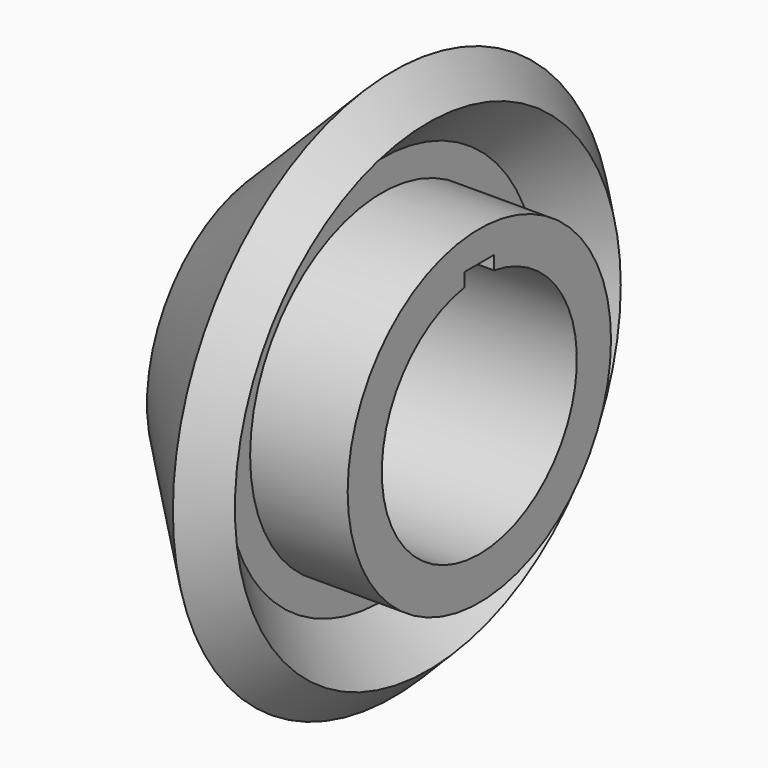
from build123d import *

# Parameters (mm, degrees)
F3_DEPTH = 75.32841


with BuildPart() as f1:
    # F0 (on Top) → F1 (revolve)
    with BuildSketch(Plane.XY):
        Polygon((75.32841, 25.4), (75.32841, 34.29), (55.00841, 34.29), (55.00841, 40.64), (64.604973, 50.236563), (57.420768, 57.420768), (30.48, 30.48), (30.48, 25.4), align=None)
    revolve(axis=Axis((1.895559, 0, 0), (1, 0, 0)))

    # F2 (on Right) → F3 (cut, through all)
    with BuildSketch(Plane.YZ):
        with BuildLine():
            ThreePointArc((-3.81, 25.112624), (0, 25.4), (3.81, 25.112624))
            Line((3.81, 25.112624), (3.81, 27.94))
            Line((3.81, 27.94), (-3.81, 27.94))
            Line((-3.81, 27.94), (-3.81, 25.112624))
        make_face()
    extrude(amount=F3_DEPTH, mode=Mode.SUBTRACT)


solid = f1.part
